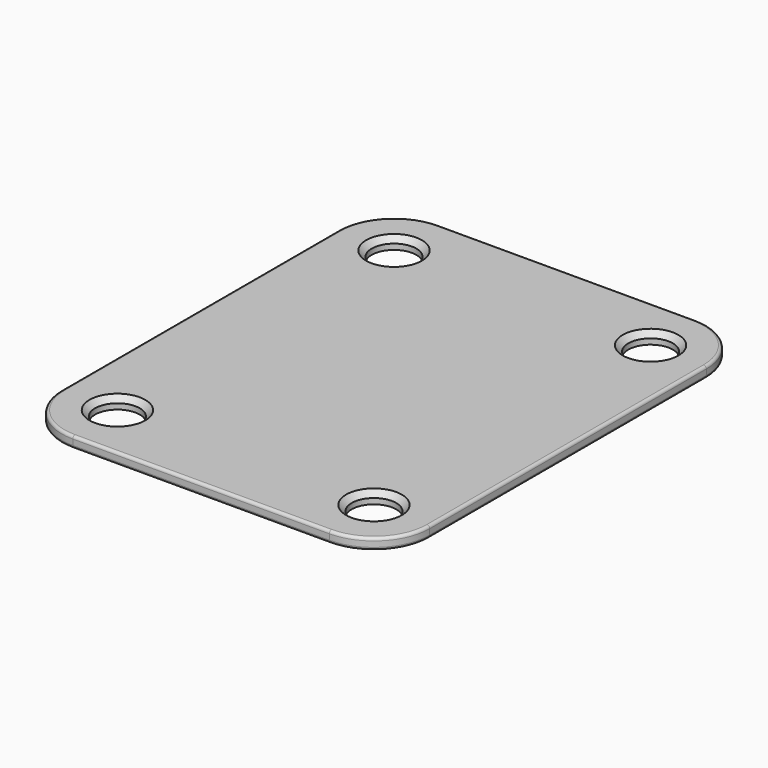
from build123d import *

# Parameters (mm, degrees)
F0_R     = 3.175
F1_DEPTH = 1.5875
F2_R     = 0.396875
F3_SIZE  = 0.79375


with BuildPart() as f1:
    # F0 (on Top) → F1 (new body)
    with BuildSketch(Plane.XY):
        with BuildLine():
            Line((18.25625, 32.54375), (-18.25625, 32.54375))
            ThreePointArc((-18.25625, 32.54375), (-23.86891, 30.21891), (-26.19375, 24.60625))
            Line((-26.19375, 24.60625), (-26.19375, -24.60625))
            ThreePointArc((-26.19375, -24.60625), (-23.86891, -30.21891), (-18.25625, -32.54375))
            Line((-18.25625, -32.54375), (18.25625, -32.54375))
            ThreePointArc((18.25625, -32.54375), (23.86891, -30.21891), (26.19375, -24.60625))
            Line((26.19375, -24.60625), (26.19375, 24.60625))
            ThreePointArc((26.19375, 24.60625), (23.86891, 30.21891), (18.25625, 32.54375))
        make_face()
        with Locations((-18.25625, -24.60625)):
            Circle(F0_R, mode=Mode.SUBTRACT)
        with Locations((18.25625, -24.60625)):
            Circle(F0_R, mode=Mode.SUBTRACT)
        with Locations((-18.25625, 24.60625)):
            Circle(F0_R, mode=Mode.SUBTRACT)
        with Locations((18.25625, 24.60625)):
            Circle(F0_R, mode=Mode.SUBTRACT)
    extrude(amount=F1_DEPTH)

    # F2
    f2_edges = [f1.edges().sort_by_distance(p)[0] for p in [
        (-18.25625, -32.54375, 0.79375),
        (18.25625, -32.54375, 0.79375),
        (0, -32.54375, 0),
        (0, -32.54375, 1.5875),
        (26.19375, -24.60625, 0.79375),
        (23.86891, -30.21891, 0),
        (23.86891, -30.21891, 1.5875),
        (26.19375, 24.60625, 0.79375),
        (26.19375, 0, 0),
        (26.19375, 0, 1.5875),
        (-26.19375, -24.60625, 0.79375),
        (-23.86891, -30.21891, 0),
        (-23.86891, -30.21891, 1.5875),
        (-26.19375, 24.60625, 0.79375),
        (-26.19375, 0, 0),
        (-26.19375, 0, 1.5875),
        (-18.25625, 32.54375, 0.79375),
        (-23.86891, 30.21891, 0),
        (-23.86891, 30.21891, 1.5875),
        (18.25625, 32.54375, 0.79375),
        (0, 32.54375, 0),
        (0, 32.54375, 1.5875),
        (23.86891, 30.21891, 0),
        (23.86891, 30.21891, 1.5875),
    ]]
    fillet(f2_edges, radius=F2_R)

    # F3
    f3_edges = [f1.edges().sort_by_distance(p)[0] for p in [
        (15.08125, -24.60625, 1.5875),
        (-21.43125, -24.60625, 1.5875),
        (-21.43125, 24.60625, 1.5875),
        (15.08125, 24.60625, 1.5875),
    ]]
    chamfer(f3_edges, length=F3_SIZE)


solid = f1.part
